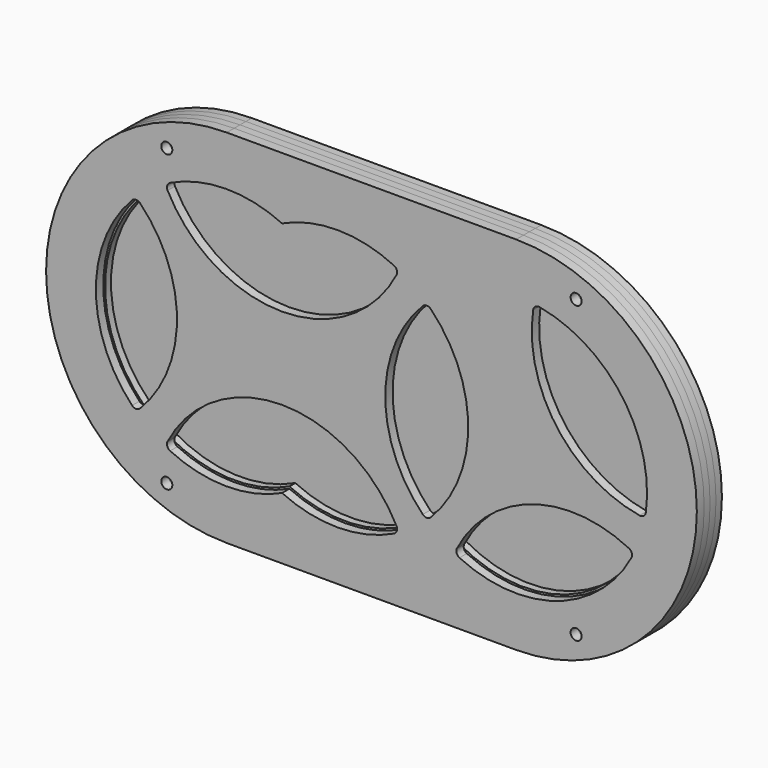
from build123d import *

# Parameters (mm, degrees)
F2_R     = 1.5
F3_DEPTH = 2
F4_R     = 1.5
F5_DEPTH = 2
F6_R     = 1.5
F7_DEPTH = 2
F8_R     = 1.5
F9_DEPTH = 2.5


with BuildPart() as f3:
    # F2 (on Front) → F3 (new body)
    with BuildSketch(Plane.XZ):
        with BuildLine():
            Line((48.5, 49), (-29.974648, 49))
            ThreePointArc((-29.974648, 49), (-78.974648, 0), (-29.974648, -49))
            Line((-29.974648, -49), (48.5, -49))
            ThreePointArc((48.5, -49), (97.5, 0), (48.5, 49))
        make_face()
        with Locations((-46.237324, -40)):
            Circle(F2_R, mode=Mode.SUBTRACT)
        with BuildLine():
            ThreePointArc((24.25, 25.237621), (83.5, 0), (24.25, -25.237621))
            ThreePointArc((24.25, -25.237621), (5.626814, -34.544739), (-14.987324, -31.628786))
            ThreePointArc((-14.987324, -31.628786), (-64.974648, 0), (-14.987324, 31.628786))
            ThreePointArc((-14.987324, 31.628786), (5.626814, 34.544739), (24.25, 25.237621))
        make_face(mode=Mode.SUBTRACT)
        with Locations((64.762676, -40)):
            Circle(F2_R, mode=Mode.SUBTRACT)
        with Locations((-46.237324, 40)):
            Circle(F2_R, mode=Mode.SUBTRACT)
        with Locations((64.762676, 40)):
            Circle(F2_R, mode=Mode.SUBTRACT)
        with BuildLine():
            ThreePointArc((-14.987324, -31.628786), (5.626814, -34.544739), (24.25, -25.237621))
            ThreePointArc((24.25, -25.237621), (83.5, 0), (24.25, 25.237621))
            ThreePointArc((24.25, 25.237621), (5.626814, 34.544739), (-14.987324, 31.628786))
            ThreePointArc((-14.987324, 31.628786), (-64.974648, 0), (-14.987324, -31.628786))
        make_face()
    extrude(amount=F3_DEPTH)


with BuildPart() as f5:
    # F4 (on face) → F5 (new body)
    with BuildSketch(Plane.XZ.offset(2)):
        with BuildLine():
            Line((48.5, 49), (-29.974648, 49))
            ThreePointArc((-29.974648, 49), (-78.974648, 0), (-29.974648, -49))
            Line((-29.974648, -49), (48.5, -49))
            ThreePointArc((48.5, -49), (97.5, 0), (48.5, 49))
        make_face()
        with Locations((-46.237324, -40)):
            Circle(F4_R, mode=Mode.SUBTRACT)
        with Locations((64.762676, -40)):
            Circle(F4_R, mode=Mode.SUBTRACT)
        with BuildLine():
            ThreePointArc((-14.987324, -36.005279), (-68.974648, 0), (-14.987324, 36.005279))
            ThreePointArc((-14.987324, 36.005279), (5.376394, 38.627638), (24.25, 30.544026))
            ThreePointArc((24.25, 30.544026), (87.5, 0), (24.25, -30.544026))
            ThreePointArc((24.25, -30.544026), (5.376394, -38.627638), (-14.987324, -36.005279))
        make_face(mode=Mode.SUBTRACT)
        with Locations((-46.237324, 40)):
            Circle(F4_R, mode=Mode.SUBTRACT)
        with Locations((64.762676, 40)):
            Circle(F4_R, mode=Mode.SUBTRACT)
    extrude(amount=F5_DEPTH)


with BuildPart() as f7:
    # F6 (on face) → F7 (new body)
    with BuildSketch(Plane.XZ.offset(4)):
        with BuildLine():
            Line((48.5, 49), (-29.974648, 49))
            ThreePointArc((-29.974648, 49), (-78.974648, 0), (-29.974648, -49))
            Line((-29.974648, -49), (48.5, -49))
            ThreePointArc((48.5, -49), (97.5, 0), (48.5, 49))
        make_face()
        with Locations((-46.237324, -40)):
            Circle(F6_R, mode=Mode.SUBTRACT)
        with BuildLine():
            ThreePointArc((24.25, 25.237621), (83.5, 0), (24.25, -25.237621))
            ThreePointArc((24.25, -25.237621), (5.626814, -34.544739), (-14.987324, -31.628786))
            ThreePointArc((-14.987324, -31.628786), (-64.974648, 0), (-14.987324, 31.628786))
            ThreePointArc((-14.987324, 31.628786), (5.626814, 34.544739), (24.25, 25.237621))
        make_face(mode=Mode.SUBTRACT)
        with Locations((64.762676, -40)):
            Circle(F6_R, mode=Mode.SUBTRACT)
        with Locations((-46.237324, 40)):
            Circle(F6_R, mode=Mode.SUBTRACT)
        with Locations((64.762676, 40)):
            Circle(F6_R, mode=Mode.SUBTRACT)
    extrude(amount=F7_DEPTH)


with BuildPart() as f9:
    # F8 (on face) → F9 (new body)
    with BuildSketch(Plane.XZ.offset(6)):
        with BuildLine():
            Line((48.5, 49), (-29.974648, 49))
            ThreePointArc((-29.974648, 49), (-78.974648, 0), (-29.974648, -49))
            Line((-29.974648, -49), (48.5, -49))
            ThreePointArc((48.5, -49), (97.5, 0), (48.5, 49))
        make_face()
        with Locations((-46.237324, -40)):
            Circle(F8_R, mode=Mode.SUBTRACT)
        with BuildLine():
            ThreePointArc((-55.65779, 24.507677), (-54.583342, 24.972103), (-53.502345, 24.523133))
            ThreePointArc((-53.502345, 24.523133), (-43.474648, 0), (-53.502345, -24.523133))
            ThreePointArc((-53.502345, -24.523133), (-54.583342, -24.972103), (-55.65779, -24.507677))
            ThreePointArc((-55.65779, -24.507677), (-65.474648, 0), (-55.65779, 24.507677))
        make_face(mode=Mode.SUBTRACT)
        with BuildLine():
            ThreePointArc((15.371659, -31.999408), (0.212582, -35.499363), (-14.987324, -32.181207))
            ThreePointArc((-14.987324, -32.181207), (-30.187231, -35.499363), (-45.346308, -31.999408))
            ThreePointArc((-45.346308, -31.999408), (-46.120025, -31.121063), (-46.027076, -29.954234))
            ThreePointArc((-46.027076, -29.954234), (-14.987324, -11.126241), (16.052428, -29.954234))
            ThreePointArc((16.052428, -29.954234), (16.145377, -31.121063), (15.371659, -31.999408))
        make_face(mode=Mode.SUBTRACT)
        with Locations((64.762676, -40)):
            Circle(F8_R, mode=Mode.SUBTRACT)
        with BuildLine():
            ThreePointArc((23.180147, 24.882826), (24.25, 25.331439), (25.319853, 24.882826))
            ThreePointArc((25.319853, 24.882826), (35.5, 0), (25.319853, -24.882826))
            ThreePointArc((25.319853, -24.882826), (24.25, -25.331439), (23.180147, -24.882826))
            ThreePointArc((23.180147, -24.882826), (13, 0), (23.180147, 24.882826))
        make_face(mode=Mode.SUBTRACT)
        with BuildLine():
            ThreePointArc((79.744713, -16.85283), (59.470103, -33.762506), (33.128341, -31.999408))
            ThreePointArc((33.128341, -31.999408), (32.354623, -31.121063), (32.447572, -29.954234))
            ThreePointArc((32.447572, -29.954234), (52.671729, -12.839263), (79.093344, -14.798104))
            ThreePointArc((79.093344, -14.798104), (79.854386, -15.687454), (79.744713, -16.85283))
        make_face(mode=Mode.SUBTRACT)
        with BuildLine():
            ThreePointArc((-45.346308, 31.999408), (-30.187231, 35.499363), (-14.987324, 32.181207))
            ThreePointArc((-14.987324, 32.181207), (0.212582, 35.499363), (15.371659, 31.999408))
            ThreePointArc((15.371659, 31.999408), (16.145377, 31.121063), (16.052428, 29.954234))
            ThreePointArc((16.052428, 29.954234), (-14.987324, 11.126241), (-46.027076, 29.954234))
            ThreePointArc((-46.027076, 29.954234), (-46.120025, 31.121063), (-45.346308, 31.999408))
        make_face(mode=Mode.SUBTRACT)
        with Locations((-46.237324, 40)):
            Circle(F8_R, mode=Mode.SUBTRACT)
        with BuildLine():
            ThreePointArc((83.683349, -4.730956), (83.087085, -5.738229), (81.948642, -6.010398))
            ThreePointArc((81.948642, -6.010398), (59.421729, 7.935101), (53.11997, 33.668865))
            ThreePointArc((53.11997, 33.668865), (53.730617, 34.667483), (54.872846, 34.923299))
            ThreePointArc((54.872846, 34.923299), (77.220103, 20.866376), (83.683349, -4.730956))
        make_face(mode=Mode.SUBTRACT)
        with Locations((64.762676, 40)):
            Circle(F8_R, mode=Mode.SUBTRACT)
    extrude(amount=F9_DEPTH)


solid = Compound([f3.part, f5.part, f7.part, f9.part])
